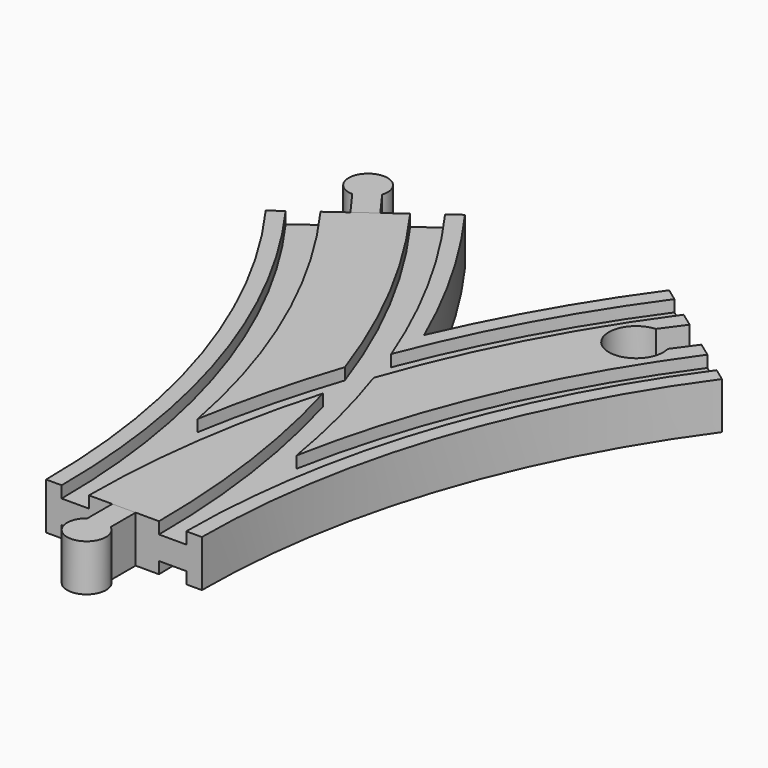
from build123d import *

# Parameters (mm, degrees)
SKETCH003_W       = 7
SKETCH003_H       = 3
SKETCH004_W       = 7
SKETCH004_H       = 3
SKETCH005_W       = 7
SKETCH005_H       = 3
SKETCH006_W       = 7
SKETCH006_H       = 3
POCKET_DEPTH      = 6.001
POCKET_DEPTH_BACK = -6.001
PAD_DEPTH         = 6
PAD002_DEPTH      = 6


with BuildPart() as main:
    # AdditivePipe: sweep along a path in Sketch
    with BuildLine(Plane.XY) as additivepipe_path:
        ThreePointArc((0, 0), (-10.865453, 68.601773), (-42.398227, 130.488326))
    # Sketch002 → AdditivePipe (sweep)
    with BuildSketch(Plane.XZ):
        Polygon((-20, 6), (-20, -6), (-16, -6), (-16, -3), (-9, -3), (-9, -6), (9, -6), (9, -3), (16, -3), (16, -6), (20, -6), (20, 6), (16, 6), (16, 3), (9, 3), (9, 6), (-9, 6), (-9, 3), (-16, 3), (-16, 6), align=None)
    sweep(path=additivepipe_path.line)

    # AdditivePipe001: sweep along a path in Sketch001
    with BuildLine(Plane.XY) as additivepipe001_path:
        ThreePointArc((42.398227, 130.488326), (10.865453, 68.601773), (0, 0))
    # Sketch002 → AdditivePipe001 (sweep)
    with BuildSketch(Plane.XZ):
        Polygon((-20, 6), (-20, -6), (-16, -6), (-16, -3), (-9, -3), (-9, -6), (9, -6), (9, -3), (16, -3), (16, -6), (20, -6), (20, 6), (16, 6), (16, 3), (9, 3), (9, 6), (-9, 6), (-9, 3), (-16, 3), (-16, 6), align=None)
    sweep(path=additivepipe001_path.line)

    # SubtractivePipe: sweep along a path in Sketch
    with BuildLine(Plane.XY) as subtractivepipe_path:
        ThreePointArc((0, 0), (-10.865453, 68.601773), (-42.398227, 130.488326))
    # Sketch003 → SubtractivePipe (sweep, cut)
    with BuildSketch(Plane.XZ):
        with Locations((-12.5, 4.5)):
            Rectangle(SKETCH003_W, SKETCH003_H)
    sweep(path=subtractivepipe_path.line, mode=Mode.SUBTRACT)

    # SubtractivePipe001: sweep along a path in Sketch001
    with BuildLine(Plane.XY) as subtractivepipe001_path:
        ThreePointArc((42.398227, 130.488326), (10.865453, 68.601773), (0, 0))
    # Sketch003 → SubtractivePipe001 (sweep, cut)
    with BuildSketch(Plane.XZ):
        with Locations((-12.5, 4.5)):
            Rectangle(SKETCH003_W, SKETCH003_H)
    sweep(path=subtractivepipe001_path.line, mode=Mode.SUBTRACT)

    # SubtractivePipe002: sweep along a path in Sketch
    with BuildLine(Plane.XY) as subtractivepipe002_path:
        ThreePointArc((0, 0), (-10.865453, 68.601773), (-42.398227, 130.488326))
    # Sketch004 → SubtractivePipe002 (sweep, cut)
    with BuildSketch(Plane.XZ):
        with Locations((12.5, 4.5)):
            Rectangle(SKETCH004_W, SKETCH004_H)
    sweep(path=subtractivepipe002_path.line, mode=Mode.SUBTRACT)

    # SubtractivePipe003: sweep along a path in Sketch001
    with BuildLine(Plane.XY) as subtractivepipe003_path:
        ThreePointArc((42.398227, 130.488326), (10.865453, 68.601773), (0, 0))
    # Sketch004 → SubtractivePipe003 (sweep, cut)
    with BuildSketch(Plane.XZ):
        with Locations((12.5, 4.5)):
            Rectangle(SKETCH004_W, SKETCH004_H)
    sweep(path=subtractivepipe003_path.line, mode=Mode.SUBTRACT)

    # SubtractivePipe004: sweep along a path in Sketch
    with BuildLine(Plane.XY) as subtractivepipe004_path:
        ThreePointArc((0, 0), (-10.865453, 68.601773), (-42.398227, 130.488326))
    # Sketch005 → SubtractivePipe004 (sweep, cut)
    with BuildSketch(Plane.XZ):
        with Locations((-12.5, -4.5)):
            Rectangle(SKETCH005_W, SKETCH005_H)
    sweep(path=subtractivepipe004_path.line, mode=Mode.SUBTRACT)

    # SubtractivePipe005: sweep along a path in Sketch001
    with BuildLine(Plane.XY) as subtractivepipe005_path:
        ThreePointArc((42.398227, 130.488326), (10.865453, 68.601773), (0, 0))
    # Sketch005 → SubtractivePipe005 (sweep, cut)
    with BuildSketch(Plane.XZ):
        with Locations((-12.5, -4.5)):
            Rectangle(SKETCH005_W, SKETCH005_H)
    sweep(path=subtractivepipe005_path.line, mode=Mode.SUBTRACT)

    # SubtractivePipe006: sweep along a path in Sketch
    with BuildLine(Plane.XY) as subtractivepipe006_path:
        ThreePointArc((0, 0), (-10.865453, 68.601773), (-42.398227, 130.488326))
    # Sketch006 → SubtractivePipe006 (sweep, cut)
    with BuildSketch(Plane.XZ):
        with Locations((12.5, -4.5)):
            Rectangle(SKETCH006_W, SKETCH006_H)
    sweep(path=subtractivepipe006_path.line, mode=Mode.SUBTRACT)

    # SubtractivePipe007: sweep along a path in Sketch001
    with BuildLine(Plane.XY) as subtractivepipe007_path:
        ThreePointArc((42.398227, 130.488326), (10.865453, 68.601773), (0, 0))
    # Sketch006 → SubtractivePipe007 (sweep, cut)
    with BuildSketch(Plane.XZ):
        with Locations((12.5, -4.5)):
            Rectangle(SKETCH006_W, SKETCH006_H)
    sweep(path=subtractivepipe007_path.line, mode=Mode.SUBTRACT)

    # Sketch009 → Pocket (cut, two sides)
    with BuildSketch(Plane.XY) as pocket_sk:
        with BuildLine():
            Line((38.757651, 133.13336), (46.038804, 127.843292))
            Line((46.038804, 127.843292), (41.924307, 122.180173))
            ThreePointArc((34.643154, 127.470241), (31.017586, 114.824218), (41.924307, 122.180173))
            Line((38.757651, 133.13336), (34.643154, 127.470241))
        make_face()
    extrude(amount=-POCKET_DEPTH, mode=Mode.SUBTRACT)
    extrude(pocket_sk.sketch, amount=-POCKET_DEPTH_BACK, mode=Mode.SUBTRACT)


with BuildPart() as male1:
    # Sketch010 → Pad (new body, symmetric)
    with BuildSketch(Plane.XY):
        with BuildLine():
            Line((-3, 0), (3, 0))
            Line((3, 0), (3, -8))
            ThreePointArc((-3, -8), (0, -17), (3, -8))
            Line((-3, 0), (-3, -8))
        make_face()
    extrude(amount=PAD_DEPTH, both=True)


with BuildPart() as male2:
    # Sketch012 → Pad002 (new body, symmetric)
    with BuildSketch(Plane.XY):
        with BuildLine():
            Line((-44.825278, 128.72497), (-39.971176, 132.251682))
            Line((-39.971176, 132.251682), (-44.673458, 138.723818))
            ThreePointArc((-44.673458, 138.723818), (-52.390577, 144.241615), (-49.52756, 135.197106))
            Line((-44.825278, 128.72497), (-49.52756, 135.197106))
        make_face()
    extrude(amount=PAD002_DEPTH, both=True)


solid = Compound([main.part, male1.part, male2.part])
